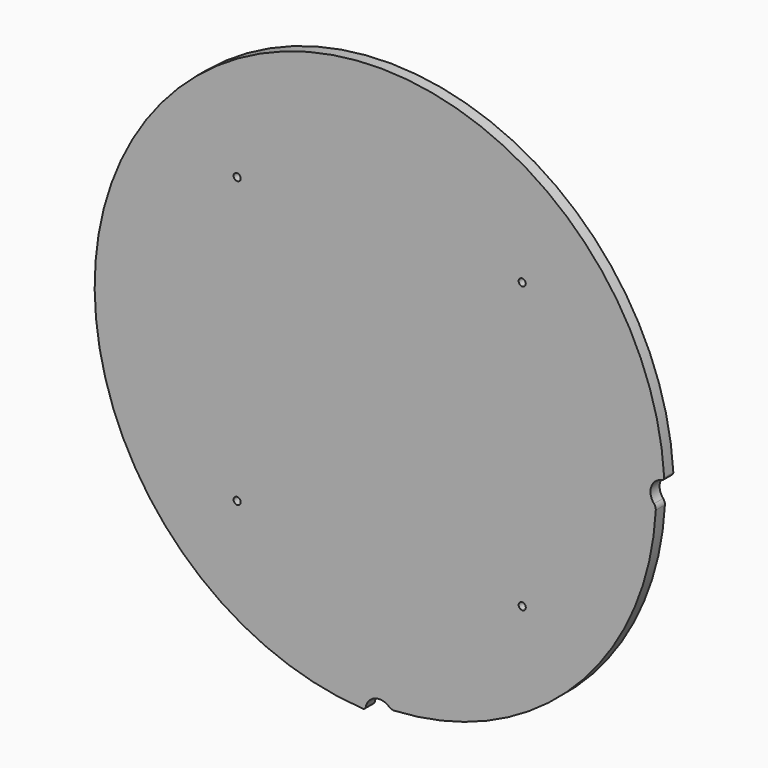
from build123d import *

# Parameters (mm, degrees)
F0_R     = 2.5
F1_DEPTH = 8


with BuildPart() as f1:
    # F0 (on Front) → F1 (new body)
    with BuildSketch(Plane.XZ):
        with BuildLine():
            ThreePointArc((198.041667, 9.806372), (199.233521, 10.545983), (199.646465, 11.886511))
            ThreePointArc((199.646465, 11.886511), (-141.421356, 141.421356), (-11.886511, -199.646465))
            ThreePointArc((-11.886511, -199.646465), (-10.545983, -199.233521), (-9.806372, -198.041667))
            ThreePointArc((-9.806372, -198.041667), (-3.202389, -190.526632), (6.606811, -192.493333))
            ThreePointArc((6.606811, -192.493333), (8.268103, -193.462654), (10.172392, -193.733122))
            ThreePointArc((10.172392, -193.733122), (137.178716, -137.178716), (193.733122, -10.172392))
            ThreePointArc((193.733122, -10.172392), (193.462654, -8.268103), (192.493333, -6.606811))
            ThreePointArc((192.493333, -6.606811), (190.526632, 3.202389), (198.041667, 9.806372))
        make_face()
        with Locations((-100, -100)):
            Circle(F0_R, mode=Mode.SUBTRACT)
        with Locations((100, -100)):
            Circle(F0_R, mode=Mode.SUBTRACT)
        with Locations((-100, 100)):
            Circle(F0_R, mode=Mode.SUBTRACT)
        with Locations((100, 100)):
            Circle(F0_R, mode=Mode.SUBTRACT)
    extrude(amount=F1_DEPTH)


solid = f1.part
